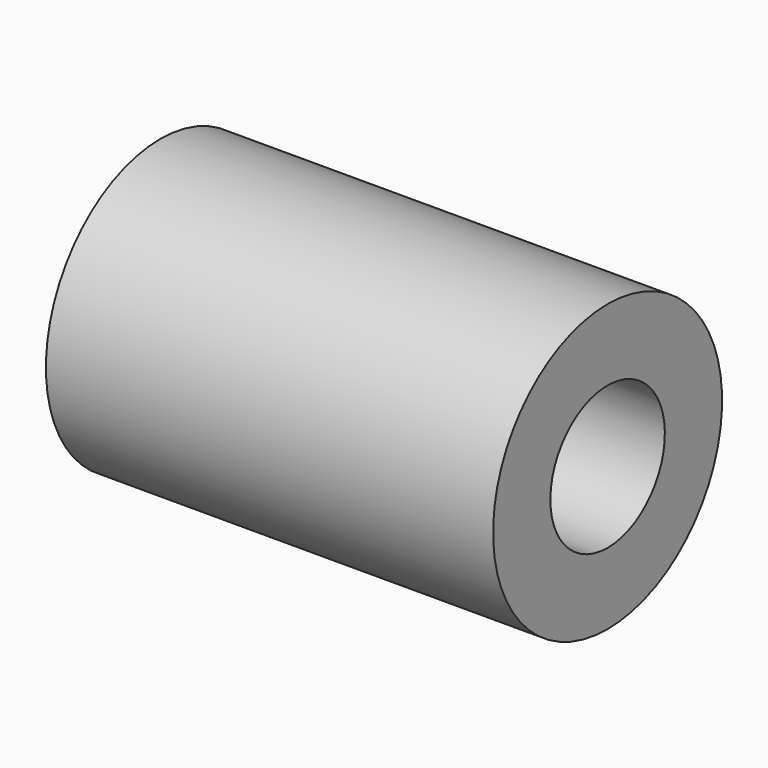
from build123d import *

# Parameters (mm, degrees)
LM8UU_CEN_X_Y_INT_R           = 4
LM8UU_CEN_X_Y_INT_DEPTH       = 27
LM8UU_CEN_X_Y_INT_PITCH_ANGLE = 90
LM8UU_CEN_X_Y_EXT_R           = 8
LM8UU_CEN_X_Y_EXT_DEPTH       = 25
LM8UU_CEN_X_Y_EXT_PITCH_ANGLE = 90


with BuildPart() as lm8uu_cen_x_y_int:
    # lm8uu_cen_x_y_int → lm8uu_cen_x_y_int (new body)
    with BuildSketch(Plane.XY):
        Circle(LM8UU_CEN_X_Y_INT_R)
    extrude(amount=LM8UU_CEN_X_Y_INT_DEPTH)


with BuildPart() as lm8uu_cen_x_y_int_1:
    # lm8uu_cen_x_y_int pitch: moved
    add(lm8uu_cen_x_y_int.part.rotate(Axis((0, 0, 0), (0, 1, 0)), LM8UU_CEN_X_Y_INT_PITCH_ANGLE))


with BuildPart() as lm8uu_cen_x_y_int_2:
    # lm8uu_cen_x_y_int placement: moved
    add(lm8uu_cen_x_y_int_1.part.moved(Location((-13.5, 0, 0))))


with BuildPart() as obj1:
    # lm8uu_cen_x_y_ext → lm8uu_cen_x_y_ext (new body)
    with BuildSketch(Plane.XY):
        Circle(LM8UU_CEN_X_Y_EXT_R)
    extrude(amount=LM8UU_CEN_X_Y_EXT_DEPTH)


with BuildPart() as obj1_1:
    # lm8uu_cen_x_y_ext pitch: moved
    add(obj1.part.rotate(Axis((0, 0, 0), (0, 1, 0)), LM8UU_CEN_X_Y_EXT_PITCH_ANGLE))


with BuildPart() as obj1_2:
    # lm8uu_cen_x_y_ext placement: moved
    add(obj1_1.part.moved(Location((-12.5, 0, 0))))

    # lm8uu_cen_x_y: cut lm8uu_cen_x_y_int
    add(lm8uu_cen_x_y_int_2.part, mode=Mode.SUBTRACT)


with BuildPart() as obj1_3:
    # lm8uu_cen_x_y placement: moved
    add(obj1_2.part.moved(Location((17.25, 32.5, 0))))


with BuildPart() as obj1_4:
    # Clone027 placement: moved
    add(obj1_3.part.moved(Location((-34.5, 0, 0))))


solid = obj1_4.part
